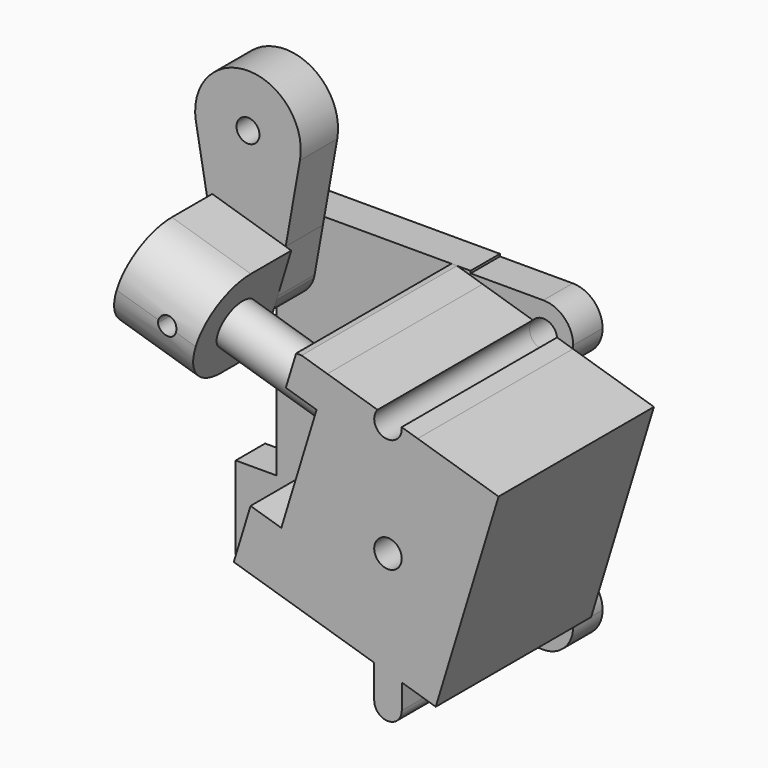
from build123d import *

# Parameters (mm, degrees)
F0_R      = 3
F1_DEPTH  = 8
F2_R      = 3
F3_DEPTH  = 42.3
F4_R      = 5
F5_DEPTH  = 50
F6_R      = 5
F7_DEPTH  = 18
F8_R      = 11
F8_R_2    = 5
F9_DEPTH  = 2
F11_DEPTH = 25
F12_R     = 2.5
F12_R_2   = 2
F13_DEPTH = 10.15
F14_R     = 2
F15_DEPTH = 25


with BuildPart() as f1:
    # F0 (on Front) → F1 (new body)
    with BuildSketch(Plane.XZ):
        Polygon((-21.15, 73.3681349903), (-21.15, 68.3681349903), (21.15, 68.3681349903), (21.15, 72.8681349903), (21.15, 73.3681349903), align=None)
        Polygon((-21.15, 20.3681349903), (21.15, 20.3681349903), (21.15, 34.9984337986), (21.15, 47.9984337986), (21.15, 59.8681349903), (21.15, 68.3681349903), (-21.15, 68.3681349903), align=None)
        Polygon((30, 20.3681349903), (21.15, 20.3681349903), (-21.15, 20.3681349903), (-30, 20.3681349903), (-30, 2.3681349903), (30, 2.3681349903), (30, 5.8681349903), (30, 18.8681349903), align=None)
        with BuildLine():
            Line((37, 18.8681349903), (30, 18.8681349903))
            Line((30, 18.8681349903), (30, 5.8681349903))
            Line((30, 5.8681349903), (37, 5.8681349903))
            ThreePointArc((37, 5.8681349903), (30.5, 12.3681349903), (37, 18.8681349903))
        make_face()
        with BuildLine():
            ThreePointArc((43.5, 12.3681349903), (41.5961940777, 16.964329068), (37, 18.8681349903))
            ThreePointArc((37, 18.8681349903), (30.5, 12.3681349903), (37, 5.8681349903))
            ThreePointArc((37, 5.8681349903), (41.5961940777, 7.7719409126), (43.5, 12.3681349903))
        make_face()
        with Locations((37, 12.3681349903)):
            Circle(F0_R, mode=Mode.SUBTRACT)
        with BuildLine():
            Line((21.15, 72.8681349903), (21.15, 68.3681349903))
            Line((21.15, 68.3681349903), (21.15, 59.8681349903))
            Line((21.15, 59.8681349903), (37, 59.8681349903))
            ThreePointArc((37, 59.8681349903), (30.5, 66.3681349903), (37, 72.8681349903))
            Line((37, 72.8681349903), (21.15, 72.8681349903))
        make_face()
        with BuildLine():
            ThreePointArc((37, 72.8681349903), (30.5, 66.3681349903), (37, 59.8681349903))
            ThreePointArc((37, 59.8681349903), (41.5961940777, 61.7719409126), (43.5, 66.3681349903))
            ThreePointArc((43.5, 66.3681349903), (41.5961940777, 70.964329068), (37, 72.8681349903))
        make_face()
        with Locations((37, 66.3681349903)):
            Circle(F0_R, mode=Mode.SUBTRACT)
        with BuildLine():
            ThreePointArc((37, 47.9984337986), (30.5, 41.4984337986), (37, 34.9984337986))
            ThreePointArc((37, 34.9984337986), (41.5961940777, 36.9022397208), (43.5, 41.4984337986))
            ThreePointArc((43.5, 41.4984337986), (41.5961940777, 46.0946278763), (37, 47.9984337986))
        make_face()
        with Locations((37, 41.4984337986)):
            Circle(F0_R, mode=Mode.SUBTRACT)
        with BuildLine():
            Line((21.15, 47.9984337986), (21.15, 34.9984337986))
            Line((21.15, 34.9984337986), (37, 34.9984337986))
            ThreePointArc((37, 34.9984337986), (30.5, 41.4984337986), (37, 47.9984337986))
            Line((37, 47.9984337986), (21.15, 47.9984337986))
        make_face()
    extrude(amount=F1_DEPTH)

    # F14 (on face) → F15 (cut)
    with BuildSketch(Plane.XZ.offset(8)):
        with Locations((-14.9110994137, 61.3745759752)):
            Circle(F14_R)
    extrude(amount=-F15_DEPTH, mode=Mode.SUBTRACT)


with BuildPart() as f3:
    # F2 (on face) → F3 (new body)
    with BuildSketch(Plane.XZ.offset(8)):
        with BuildLine():
            Line((21.15, 28.2332108276), (43.9339624369, 21.2674544655))
            Line((43.9339624369, 21.2674544655), (56.3012855467, 61.7191456427))
            Line((56.3012855467, 61.7191456427), (43.4596744605, 65.6452201511))
            ThreePointArc((43.4596744605, 65.6452201511), (41.3330735942, 61.5230887339), (37, 59.8681349903))
            Line((37, 59.8681349903), (21.15, 59.8681349903))
            Line((21.15, 59.8681349903), (21.15, 47.9984337986))
            Line((21.15, 47.9984337986), (37, 47.9984337986))
            ThreePointArc((37, 47.9984337986), (43.5, 41.4984337986), (37, 34.9984337986))
            Line((37, 34.9984337986), (21.15, 34.9984337986))
            Line((21.15, 34.9984337986), (21.15, 28.2332108276))
        make_face()
        with BuildLine():
            Line((11.4196007342, 31.2080924261), (21.15, 28.2332108276))
            Line((21.15, 28.2332108276), (21.15, 34.9984337986))
            Line((21.15, 34.9984337986), (37, 34.9984337986))
            ThreePointArc((37, 34.9984337986), (43.5, 41.4984337986), (37, 47.9984337986))
            Line((37, 47.9984337986), (21.15, 47.9984337986))
            Line((21.15, 47.9984337986), (21.15, 59.8681349903))
            Line((21.15, 59.8681349903), (37, 59.8681349903))
            ThreePointArc((37, 59.8681349903), (41.3330735942, 61.5230887339), (43.4596744605, 65.6452201511))
            Line((43.4596744605, 65.6452201511), (39.9805854868, 66.7088843939))
            ThreePointArc((39.9805854868, 66.7088843939), (39.995142439, 66.538786008), (40, 66.3681349903))
            ThreePointArc((40, 66.3681349903), (35.9611107194, 63.55375956), (34.7195272916, 68.3173513011))
            Line((34.7195272916, 68.3173513011), (23.786923844, 71.6597836033))
            Line((23.786923844, 71.6597836033), (21.4479502062, 64.0093455556))
            Line((21.4479502062, 64.0093455556), (13.758574372, 38.8585304738))
            Line((13.758574372, 38.8585304738), (11.4196007342, 31.2080924261))
        make_face()
        with Locations((37, 41.4984337986)):
            Circle(F2_R, mode=Mode.SUBTRACT)
        Polygon((14.7538169144, 66.0559474886), (21.4479502062, 64.0093455556), (23.786923844, 71.6597836033), (18.1991582363, 73.3681349903), (16.9893769823, 73.3681349903), align=None)
        Polygon((7.0644410802, 40.9051324068), (4.7254674424, 33.2546943591), (11.4196007342, 31.2080924261), (13.758574372, 38.8585304738), align=None)
        Polygon((3.4097947712, 28.9513229573), (21.15, 23.5275979235), (21.15, 28.2332108276), (11.4196007342, 31.2080924261), (4.7254674424, 33.2546943591), align=None)
        with BuildLine():
            Line((34, 19.5989586667), (36.3904165355, 18.8681349903))
            Line((36.3904165355, 18.8681349903), (37, 18.8681349903))
            ThreePointArc((37, 18.8681349903), (39.1557432081, 18.500244841), (41.0674628191, 17.4382184429))
            Line((41.0674628191, 17.4382184429), (42.6182897657, 16.9640830636))
            Line((42.6182897657, 16.9640830636), (43.9339624369, 21.2674544655))
            Line((43.9339624369, 21.2674544655), (21.15, 28.2332108276))
            Line((21.15, 28.2332108276), (21.15, 23.5275979235))
            Line((21.15, 23.5275979235), (34, 19.5989586667))
        make_face()
        with BuildLine():
            ThreePointArc((34, 12.3681349903), (37, 9.3681349903), (40, 12.3681349903))
            ThreePointArc((40, 12.3681349903), (37, 15.3681349903), (34, 12.3681349903))
        make_face()
        with BuildLine():
            ThreePointArc((34, 12.3681349903), (37, 15.3681349903), (40, 12.3681349903))
            Line((40, 12.3681349903), (40, 17.764574578))
            Line((40, 17.764574578), (36.3904165355, 18.8681349903))
            Line((36.3904165355, 18.8681349903), (34, 18.8681349903))
            Line((34, 18.8681349903), (34, 12.3681349903))
        make_face()
        with BuildLine():
            Line((36.3904165355, 18.8681349903), (40, 17.764574578))
            Line((40, 17.764574578), (41.0674628191, 17.4382184429))
            ThreePointArc((41.0674628191, 17.4382184429), (39.1557432081, 18.500244841), (37, 18.8681349903))
            Line((37, 18.8681349903), (36.3904165355, 18.8681349903))
        make_face()
        Polygon((34, 19.5989586667), (34, 18.8681349903), (36.3904165355, 18.8681349903), align=None)
        Polygon((43.9339624369, 21.2674544655), (42.6182897657, 16.9640830636), (47.3998135455, 15.50222454), (61.0828093265, 60.2572871191), (56.3012855467, 61.7191456427), align=None)
    extrude(amount=F3_DEPTH)

    # F4 (on face) → F5 (join)
    with BuildSketch(Plane(origin=(1.7177674954, 0, -0.525174227), x_dir=(0, -1, 0), z_dir=(-0.956304756, 0, 0.2923717047))):
        with Locations((29.15, 54.3332153455)):
            Circle(F4_R)
    extrude(amount=F5_DEPTH)

    # F8 (on face) → F9 (join)
    with BuildSketch(Plane(origin=(1.7177674954, 0, -0.525174227), x_dir=(0, -1, 0), z_dir=(-0.956304756, 0, 0.2923717047))):
        with Locations((29.15, 54.3332153455)):
            Circle(F8_R)
        with Locations((29.15, 54.3332153455)):
            Circle(F8_R_2, mode=Mode.SUBTRACT)
    extrude(amount=F9_DEPTH)


with BuildPart() as f7:
    # F6 (on face) → F7 (new body)
    with BuildSketch(Plane(origin=(-46.0974703027, 0, 14.0934110092), x_dir=(0, -1, 0), z_dir=(-0.956304756, 0, 0.2923717047))):
        with BuildLine():
            ThreePointArc((29.15, 43.3332153455), (36.9281745931, 46.5550407524), (40.15, 54.3332153455))
            ThreePointArc((40.15, 54.3332153455), (36.9281745931, 62.1113899385), (29.15, 65.3332153455))
            ThreePointArc((29.15, 65.3332153455), (21.3718254069, 62.1113899385), (18.15, 54.3332153455))
            ThreePointArc((18.15, 54.3332153455), (21.3718254069, 46.5550407524), (29.15, 43.3332153455))
        make_face()
        with Locations((29.15, 54.3332153455)):
            Circle(F6_R, mode=Mode.SUBTRACT)
        with BuildLine():
            ThreePointArc((18.15, 54.3332153455), (21.3718254069, 62.1113899385), (29.15, 65.3332153455))
            Line((29.15, 65.3332153455), (18.15, 65.3332153455))
            Line((18.15, 65.3332153455), (18.15, 54.3332153455))
        make_face()
        with BuildLine():
            Line((18.15, 43.3332153455), (29.15, 43.3332153455))
            ThreePointArc((29.15, 43.3332153455), (21.3718254069, 46.5550407524), (18.15, 54.3332153455))
            Line((18.15, 54.3332153455), (18.15, 43.3332153455))
        make_face()
    extrude(amount=-F7_DEPTH)

    # F10 (on face) → F11 (cut)
    with BuildSketch(Plane(origin=(0, -18.15, 0), x_dir=(-1, 0, 0), z_dir=(0, 1, 0))):
        with BuildLine():
            ThreePointArc((21.2144708155, 62.6902486465), (18.9188519932, 64.6682803732), (17.3018613036, 62.105505237))
            ThreePointArc((17.3018613036, 62.105505237), (19.5100896378, 60.7122169198), (21.2144708155, 62.6902486465))
        make_face()
    extrude(amount=-F11_DEPTH, mode=Mode.SUBTRACT)


with BuildPart() as f13:
    # F12 (on face) → F13 (new body, through all)
    with BuildSketch(Plane(origin=(0, -18.15, 0), x_dir=(-1, 0, 0), z_dir=(0, 1, 0))):
        with BuildLine():
            ThreePointArc((30.7144708155, 91.2364348769), (18.2034159592, 102.6919037926), (7.8922502803, 89.2221553154))
            ThreePointArc((7.8922502803, 89.2221553154), (19.2144707625, 79.7364348769), (30.5366913321, 89.2221552109))
            ThreePointArc((30.5366913321, 89.2221552109), (30.6699397265, 90.2253799677), (30.7144708155, 91.2364348769))
        make_face()
        with Locations((19.2144708155, 91.2364348769)):
            Circle(F12_R, mode=Mode.SUBTRACT)
        with BuildLine():
            Line((7.8922502803, 89.2221553154), (11.0121688692, 71.6851626043))
            Line((11.0121688692, 71.6851626043), (26.9958867571, 76.5718755664))
            Line((26.9958867571, 76.5718755664), (27.811523534, 73.904047879))
            Line((27.811523534, 73.904047879), (30.5366913321, 89.2221552109))
            ThreePointArc((30.5366913321, 89.2221552109), (19.2144707625, 79.7364348769), (7.8922502803, 89.2221553154))
        make_face()
        with BuildLine():
            ThreePointArc((25.6139867517, 61.5517427032), (25.6893010675, 62.1187828055), (25.7144708155, 62.6902486465))
            ThreePointArc((25.7144708155, 62.6902486465), (18.6430050699, 69.1650789069), (12.8149548458, 61.5517428919))
            ThreePointArc((12.8149548458, 61.5517428919), (12.8952289767, 61.1680191688), (12.9984898668, 60.7898326801))
            ThreePointArc((12.9984898668, 60.7898326801), (19.6063228204, 56.2020707816), (25.6139867517, 61.5517427032))
        make_face()
        with Locations((19.2144708155, 62.6902486465)):
            Circle(F12_R_2, mode=Mode.SUBTRACT)
        with BuildLine():
            ThreePointArc((12.8149548458, 61.5517428919), (18.6430050699, 69.1650789069), (25.7144708155, 62.6902486465))
            ThreePointArc((25.7144708155, 62.6902486465), (25.6893010675, 62.1187828055), (25.6139867517, 61.5517427032))
            Line((25.6139867517, 61.5517427032), (27.811523534, 73.904047879))
            Line((27.811523534, 73.904047879), (26.9958867571, 76.5718755664))
            Line((26.9958867571, 76.5718755664), (11.0121688692, 71.6851626043))
            Line((11.0121688692, 71.6851626043), (12.8149548458, 61.5517428919))
        make_face()
    extrude(amount=F13_DEPTH)


solid = Compound([f1.part, f3.part, f7.part, f13.part])
